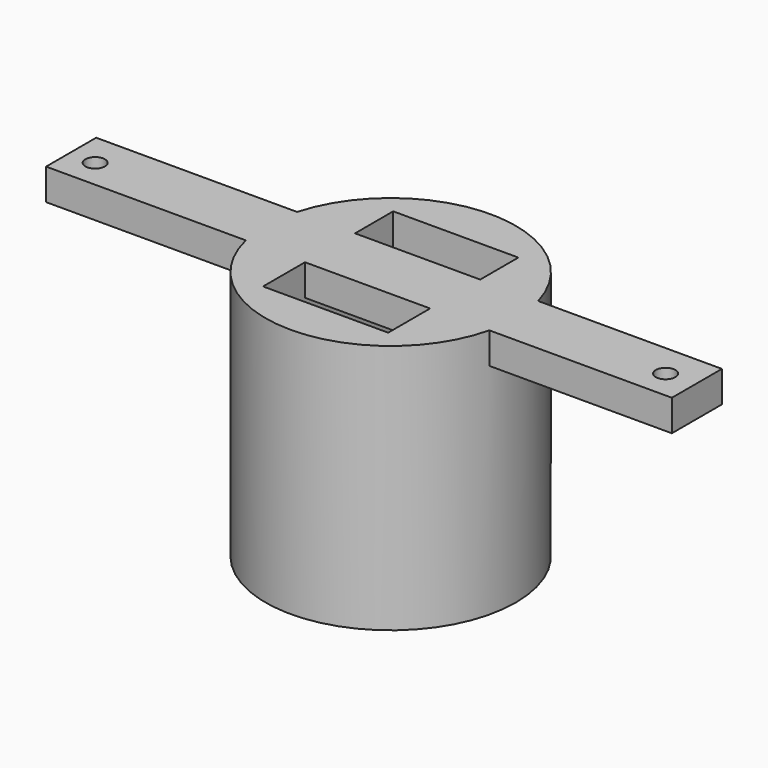
from build123d import *

# Parameters (mm, degrees)
F0_R      = 6.35
F1_DEPTH  = 12.7
F2_W      = 6.35
F2_H      = 8.255
F3_DEPTH  = 25.4
F4_W      = 31.75
F4_H      = 3.175
F5_DEPTH  = 1.5875
F6_R      = 0.4953
F7_DEPTH  = 1.5875
F9_R      = 0.4953
F10_DEPTH = 25.4


with BuildPart() as f1:
    # F0 (on Top) → F1 (new body)
    with BuildSketch(Plane.XY):
        Circle(F0_R)
    extrude(amount=F1_DEPTH)

    # F2 (on face) → F3 (cut)
    with BuildSketch(Plane.XY.offset(12.7)):
        Rectangle(F2_W, F2_H)
    extrude(amount=-F3_DEPTH, mode=Mode.SUBTRACT)

    # F4 (on face) → F5 (join)
    with BuildSketch(Plane.XY.offset(12.7)):
        with Locations((-0.4356827326, 0.1208083219)):
            Rectangle(F4_W, F4_H)
    extrude(amount=-F5_DEPTH)

    # F6 (on face) → F7 (cut)
    with BuildSketch(Plane.XY.offset(12.7)):
        with Locations((13.9489074385, 0)):
            Circle(F6_R)
    extrude(amount=-F7_DEPTH, mode=Mode.SUBTRACT)

    # F9 (on face) → F10 (cut)
    with BuildSketch(Plane.XY.offset(12.7)):
        with Locations((-14.99362, 0)):
            Circle(F9_R)
    extrude(amount=-F10_DEPTH, mode=Mode.SUBTRACT)


solid = f1.part
